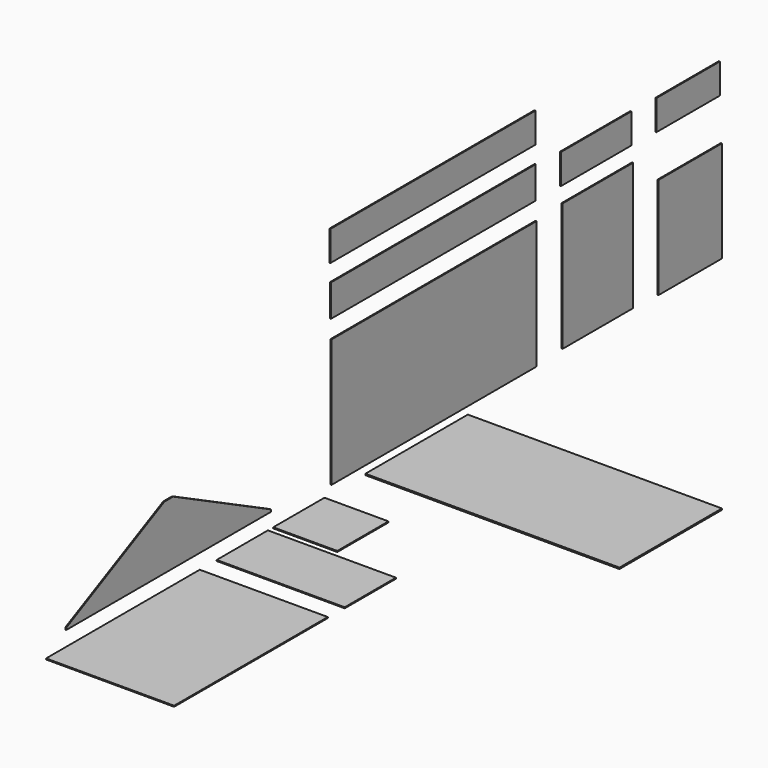
from build123d import *

# Parameters (mm, degrees)
F0_W      = 2419.35
F0_H      = 1219.2
F1_DEPTH  = 12.7
F2_W      = 2438.4
F2_H      = 1219.2
F3_DEPTH  = 9.525
F4_W      = 2438.4
F4_H      = 304.8
F5_DEPTH  = 9.525
F6_W      = 838.2
F6_H      = 1219.2
F7_DEPTH  = 9.525
F8_W      = 755.65
F8_H      = 965.2
F9_DEPTH  = 9.525
F10_W     = 838.2
F10_H     = 285.75
F11_DEPTH = 9.525
F12_W     = 755.65
F12_H     = 285.75
F13_DEPTH = 9.525
F15_W     = 1219.2
F15_H     = 1828.8
F16_DEPTH = 9.525
F14_W     = 1219.2
F14_H     = 609.6
F17_DEPTH = 9.525
F18_W     = 609.6
F18_H     = 609.6
F19_DEPTH = 9.525
F21_DEPTH = 9.525
F22_W     = 2438.4
F22_H     = 285.75
F23_DEPTH = 9.525


with BuildPart() as f1:
    # F0 (on Top) → F1 (new body)
    with BuildSketch(Plane.XY):
        with Locations((1209.675, -609.6)):
            Rectangle(F0_W, F0_H)
    extrude(amount=F1_DEPTH)


with BuildPart() as f3:
    # F2 (on Right) → F3 (new body)
    with BuildSketch(Plane.YZ):
        with Locations((-416.17161, 700.159263)):
            Rectangle(F2_W, F2_H)
    extrude(amount=F3_DEPTH)


with BuildPart() as f5:
    # F4 (on Right) → F5 (new body)
    with BuildSketch(Plane.YZ):
        with Locations((-423.311144, 1637.625886)):
            Rectangle(F4_W, F4_H)
    extrude(amount=F5_DEPTH)


with BuildPart() as f7:
    # F6 (on Right) → F7 (new body)
    with BuildSketch(Plane.YZ):
        with Locations((1536.51911, 722.284046)):
            Rectangle(F6_W, F6_H)
    extrude(amount=F7_DEPTH)


with BuildPart() as f9:
    # F8 (on Right) → F9 (new body)
    with BuildSketch(Plane.YZ):
        with Locations((2634.524822, 581.849857)):
            Rectangle(F8_W, F8_H)
    extrude(amount=F9_DEPTH)


with BuildPart() as f11:
    # F10 (on Right) → F11 (new body)
    with BuildSketch(Plane.YZ):
        with Locations((1514.340671, 1627.681018)):
            Rectangle(F10_W, F10_H)
    extrude(amount=F11_DEPTH)


with BuildPart() as f13:
    # F12 (on Right) → F13 (new body)
    with BuildSketch(Plane.YZ):
        with Locations((2609.427483, 1617.785812)):
            Rectangle(F12_W, F12_H)
    extrude(amount=F13_DEPTH)


with BuildPart() as f16:
    # F15 (on Top) → F16 (new body)
    with BuildSketch(Plane.XY):
        with Locations((609.6, -4105.301192)):
            Rectangle(F15_W, F15_H)
    extrude(amount=F16_DEPTH)


with BuildPart() as f17:
    # F14 (on Top) → F17 (new body)
    with BuildSketch(Plane.XY):
        with Locations((609.6, -2684.461389)):
            Rectangle(F14_W, F14_H)
    extrude(amount=F17_DEPTH)


with BuildPart() as f19:
    # F18 (on Top) → F19 (new body)
    with BuildSketch(Plane.XY):
        with Locations((304.8, -2011.175764)):
            Rectangle(F18_W, F18_H)
    extrude(amount=F19_DEPTH)


with BuildPart() as f21:
    # F20 (on Right) → F21 (new body)
    with BuildSketch(Plane.YZ):
        Polygon((-3624.118958, 758.520031), (-4790.864929, 176.801948), (-4790.864929, 157.751948), (-2352.464929, 157.751948), (-2352.464929, 176.801948), (-3519.210901, 758.520031), align=None)
    extrude(amount=F21_DEPTH)


with BuildPart() as f23:
    # F22 (on Right) → F23 (new body)
    with BuildSketch(Plane.YZ):
        with Locations((-428.155303, 2098.436329)):
            Rectangle(F22_W, F22_H)
    extrude(amount=F23_DEPTH)


solid = Compound([f1.part, f3.part, f5.part, f7.part, f9.part, f11.part, f13.part, f16.part, f17.part, f19.part, f21.part, f23.part])
